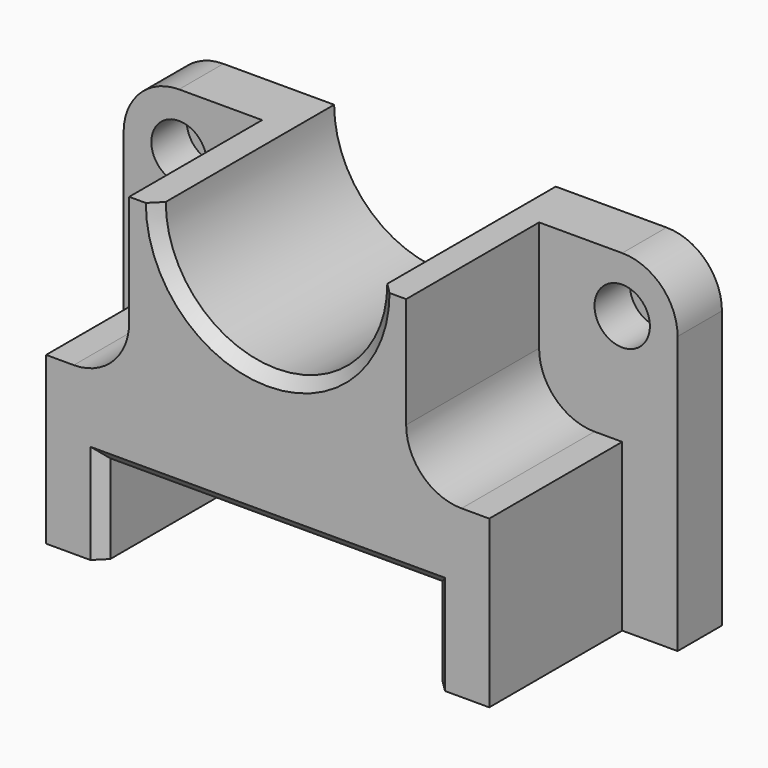
from build123d import *

# Parameters (mm, degrees)
F1_DEPTH             = 6.35
F3_DEPTH             = 19.05
F4_DEPTH             = 6.351
F5_SIZE              = 1.27
F6_SIZE              = 1.27
F9_D                 = 3.81
F9_CBORE_D           = 6.35
F9_CBORE_DEPTH       = 5.08
F9_ON_F8_D           = 3.81
F9_ON_F8_CBORE_D     = 6.35
F9_ON_F8_CBORE_DEPTH = 5.08


with BuildPart() as f1:
    # F0 (on Front) → F1 (new body)
    with BuildSketch(Plane.XZ):
        with BuildLine():
            ThreePointArc((31.75, 12.7), (29.8901280605, 17.1901280605), (25.4, 19.05))
            Line((25.4, 19.05), (-25.4, 19.05))
            ThreePointArc((-25.4, 19.05), (-29.8901280605, 17.1901280605), (-31.75, 12.7))
            Line((-31.75, 12.7), (-31.75, -19.05))
            Line((-31.75, -19.05), (31.75, -19.05))
            Line((31.75, -19.05), (31.75, 12.7))
        make_face()
    extrude(amount=F1_DEPTH)

    # F2 (on face) → F3 (join)
    with BuildSketch(Plane.XZ.offset(6.35)):
        with BuildLine():
            Line((19.05, -19.05), (25.4, -19.05))
            Line((25.4, -19.05), (25.4, 0))
            Line((25.4, 0), (22.225, 0))
            ThreePointArc((22.225, 0), (17.7348719395, 1.8598719395), (15.875, 6.35))
            Line((15.875, 6.35), (15.875, 19.05))
            Line((15.875, 19.05), (12.7, 19.05))
            ThreePointArc((12.7, 19.05), (0, 6.35), (-12.7, 19.05))
            Line((-12.7, 19.05), (-15.875, 19.05))
            Line((-15.875, 19.05), (-15.875, 6.35))
            ThreePointArc((-15.875, 6.35), (-17.7348719395, 1.8598719395), (-22.225, 0))
            Line((-22.225, 0), (-25.4, 0))
            Line((-25.4, 0), (-25.4, -19.05))
            Line((-25.4, -19.05), (-19.05, -19.05))
            Line((-19.05, -19.05), (-19.05, -8.89))
            Line((-19.05, -8.89), (19.05, -8.89))
            Line((19.05, -8.89), (19.05, -19.05))
        make_face()
    extrude(amount=F3_DEPTH)

    # F4 (cut, through all): a face of the model
    f4_faces = [f1.faces().sort_by_distance(p)[0] for p in [
        (0, -6.35, 13.659952594),
    ]]
    extrude(f4_faces, amount=-F4_DEPTH, mode=Mode.SUBTRACT)

    # F5
    f5_edges = [f1.edges().sort_by_distance(p)[0] for p in [
        (0, -25.4, -8.89),
        (-19.05, -25.4, -13.97),
        (19.05, -25.4, -13.97),
    ]]
    chamfer(f5_edges, length=F5_SIZE)

    # F6
    f6_edges = [f1.edges().sort_by_distance(p)[0] for p in [
        (0, -25.4, 6.35),
    ]]
    chamfer(f6_edges, length=F6_SIZE)

    # F9 (through all)
    with Locations(Plane.XZ.offset(6.35)):
        with Locations((-25.4, 12.7)):
            CounterBoreHole(F9_D / 2, F9_CBORE_D / 2, F9_CBORE_DEPTH)

    # F9 on F8 (through all)
    with Locations(Plane.XZ.offset(6.35)):
        with Locations((25.4, 12.7)):
            CounterBoreHole(F9_ON_F8_D / 2, F9_ON_F8_CBORE_D / 2, F9_ON_F8_CBORE_DEPTH)


solid = f1.part
